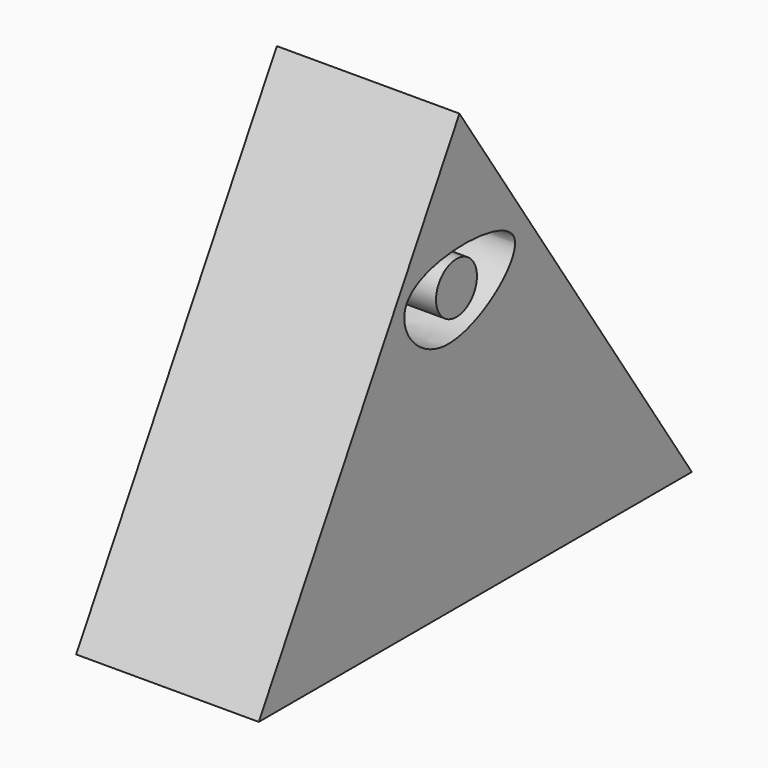
from build123d import *

# Parameters (mm, degrees)
F1_DEPTH = 25
F2_R     = 3.5020969803
F3_DEPTH = 25


with BuildPart() as f1:
    # F0 (on Right) → F1 (new body)
    with BuildSketch(Plane.YZ):
        Polygon((-1.9396552816, 59.3589432538), (-36.2715534866, 0), (37.8232784569, 0), align=None)
        with BuildLine():
            add(Edge.make_bspline(
                [(-10.6681035832, 40.5428297818), (-7.6286068887, 44.2469875954), (17.5783776514, 44.1035182674), (-5.3241676234, 26.984043361), (-12.9452983093, 37.7676701135), (-10.6681035832, 40.5428297818)],
                knots=[0, 0, 0, 0, 0.3773706127, 0.7172734648, 1, 1, 1, 1], degree=3))
        make_face(mode=Mode.SUBTRACT)
    extrude(amount=F1_DEPTH)


with BuildPart() as f3:
    # F2 (on Right) → F3 (new body)
    with BuildSketch(Plane.YZ):
        with Locations((-2.4463732261, 38.5482795537)):
            Circle(F2_R)
    extrude(amount=F3_DEPTH)


solid = Compound([f1.part, f3.part])
